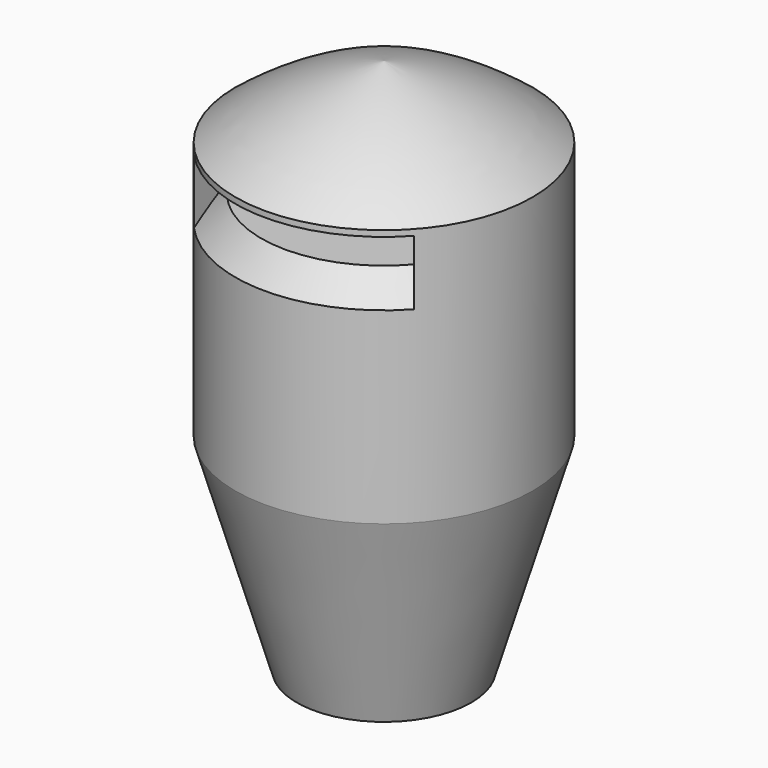
from build123d import *

# Parameters (mm, degrees)
SKETCH001_W       = 17
SKETCH001_H       = 3
POCKET_DEPTH      = 11.501
POCKET_DEPTH_BACK = -11.501
CHAMFER_SIZE      = 2
CHAMFER001_SIZE   = 2


with BuildPart() as part:
    # Sketch → Revolution (revolve)
    with BuildSketch(Plane.XZ):
        with BuildLine():
            Line((4.75, 0), (6.75, 0))
            Line((6.75, 0), (11.5, 15.96))
            Line((11.5, 15.96), (11.5, 35.96))
            ThreePointArc((11.5, 35.96), (6.047256, 39.347048), (0, 41.5))
            Line((0, 41.5), (0, 31.5))
            Line((0, 31.5), (3.75, 31.5))
            Line((3.75, 15), (3.75, 31.5))
            Line((4.75, 15), (3.75, 15))
            Line((4.75, 0), (4.75, 15))
        make_face()
    revolve(axis=Axis((0, 0, 0), (0, 0, 1)))

    # Sketch001 → Pocket (cut, two sides)
    with BuildSketch(Plane.XZ) as pocket_sk:
        with Locations((0, 34)):
            Rectangle(SKETCH001_W, SKETCH001_H)
    extrude(amount=-POCKET_DEPTH, mode=Mode.SUBTRACT)
    extrude(pocket_sk.sketch, amount=-POCKET_DEPTH_BACK, mode=Mode.SUBTRACT)

    # Chamfer
    chamfer_edges = [part.edges().sort_by_distance(p)[0] for p in [
        (0, 11.5, 32.5),
    ]]
    chamfer(chamfer_edges, length=CHAMFER_SIZE)

    # Chamfer001
    chamfer001_edges = [part.edges().sort_by_distance(p)[0] for p in [
        (0, -11.5, 32.5),
    ]]
    chamfer(chamfer001_edges, length=CHAMFER001_SIZE)


solid = part.part
